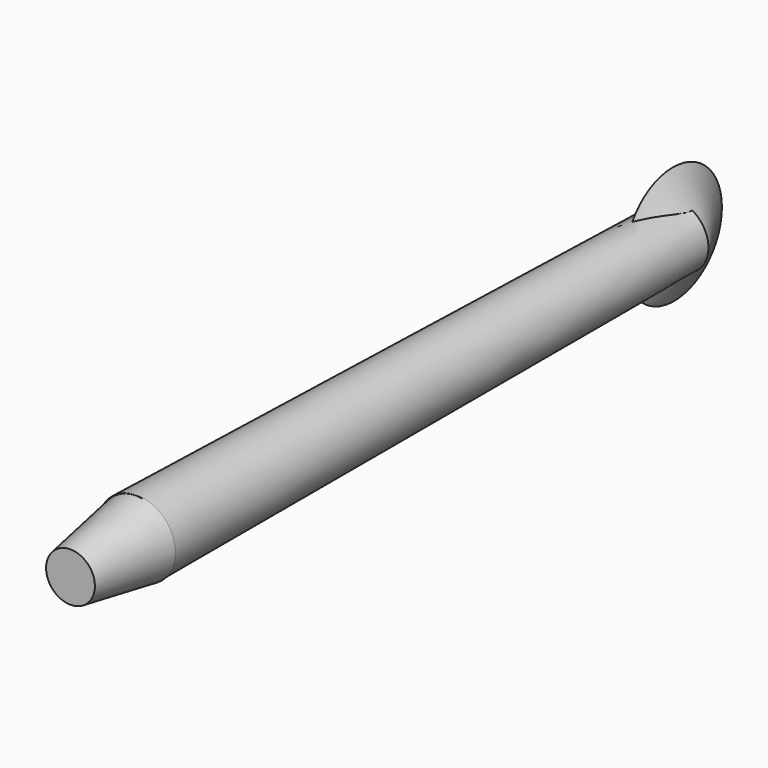
from build123d import *


with BuildPart() as f1:
    # F0 (on Top) → F1 (revolve)
    with BuildSketch(Plane.XY):
        Polygon((59.6333741789, 128.3699296738), (-29.0119424462, 130.772665143), (-80.8465927839, -1781.5889120102), (28.4993311565, -1784.5527384126), align=None)
    revolve(axis=Axis((44.0663526677, -828.0914043694, 0), (-0.016273486, -0.9998675781, 0)))

    # F2 (on Top) → F3 (revolve)
    with BuildSketch(Plane.XY):
        Polygon((49.3649728596, 300.1457750797), (-28.7579037249, 130.98102808), (147.6699262857, 127.8290897608), align=None)
    revolve(axis=Axis((59.4560112804, 129.4050589204, 0), (0.9998404535, -0.0178624622, 0)))


with BuildPart() as f5:
    # F4 (on Top) → F5 (revolve)
    with BuildSketch(Plane.XY):
        Polygon((30.6273214519, -2021.6417312622), (30.6273214519, -1780.9858322144), (-78.7617266178, -1780.9858322144), (-39.6942049265, -2021.6417312622), align=None)
    revolve(axis=Axis((30.6273214519, -1901.3137817383, 0), (0, -1, 0)))


solid = Compound([f1.part, f5.part])
